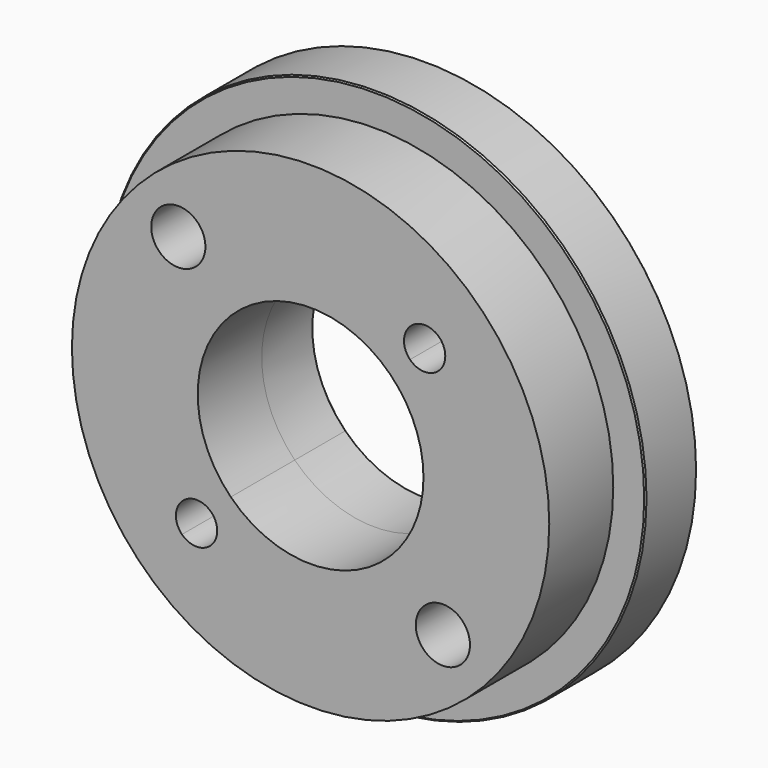
from build123d import *

# Parameters (mm, degrees)
F0_R          = 21
F1_DEPTH      = 5
F2_R          = 18.5
F3_DEPTH      = 6.2
F5_DEPTH      = 6.2
F5_DEPTH_BACK = 5
F6_SIZE       = 0.1


with BuildPart() as f1:
    # F0 (on Front) → F1 (new body)
    with BuildSketch(Plane.XZ):
        Circle(F0_R)
    extrude(amount=-F1_DEPTH)

    # F2 (on Front) → F3 (join)
    with BuildSketch(Plane.XZ):
        Circle(F2_R)
    extrude(amount=F3_DEPTH)

    # F4 (on Front) → F5 (cut, two sides)
    with BuildSketch(Plane.XZ) as f5_sk:
        with BuildLine():
            ThreePointArc((7.7074639149, 7.7074639149), (9.4511282566, 7.3606275128), (10.4388347648, 8.8388347648))
            ThreePointArc((10.4388347648, 8.8388347648), (10.3170420168, 9.4511282566), (9.9702056147, 9.9702056147))
            Line((9.9702056147, 9.9702056147), (7.7074639149, 7.7074639149))
        make_face()
        with BuildLine():
            ThreePointArc((12.3530483272, -10.2530483272), (11.0566835352, -8.3129013089), (8.7681240867, -8.7681240867))
            Line((8.7681240867, -8.7681240867), (11.7379725677, -11.7379725677))
            ThreePointArc((11.7379725677, -11.7379725677), (12.1931953455, -11.0566835352), (12.3530483272, -10.2530483272))
        make_face()
        with BuildLine():
            Line((11.7379725677, -11.7379725677), (8.7681240867, -8.7681240867))
            ThreePointArc((8.7681240867, -8.7681240867), (8.7681240867, -11.7379725677), (11.7379725677, -11.7379725677))
        make_face()
        with BuildLine():
            ThreePointArc((-7.2388347648, -8.8388347648), (-7.3606275128, -8.226541273), (-7.7074639149, -7.7074639149))
            Line((-7.7074639149, -7.7074639149), (-9.9702056147, -9.9702056147))
            ThreePointArc((-9.9702056147, -9.9702056147), (-8.226541273, -10.3170420168), (-7.2388347648, -8.8388347648))
        make_face()
        with BuildLine():
            Line((-9.9702056147, -9.9702056147), (-7.7074639149, -7.7074639149))
            ThreePointArc((-7.7074639149, -7.7074639149), (-9.9702056147, -7.7074639149), (-9.9702056147, -9.9702056147))
        make_face()
        with BuildLine():
            ThreePointArc((-11.7379725677, 11.7379725677), (-11.7379725677, 8.7681240867), (-8.7681240867, 8.7681240867))
            Line((-8.7681240867, 8.7681240867), (-11.7379725677, 11.7379725677))
        make_face()
        with BuildLine():
            Line((-11.7379725677, 11.7379725677), (-8.7681240867, 8.7681240867))
            ThreePointArc((-8.7681240867, 8.7681240867), (-8.3129013089, 9.4494131192), (-8.1530483272, 10.2530483272))
            ThreePointArc((-8.1530483272, 10.2530483272), (-9.4494131192, 12.1931953455), (-11.7379725677, 11.7379725677))
        make_face()
        with BuildLine():
            ThreePointArc((8.75, 0), (8.0839459095, 3.3484800332), (6.1871843354, 6.1871843354))
            Line((6.1871843354, 6.1871843354), (0, 0))
            Line((0, 0), (6.1871843354, -6.1871843354))
            ThreePointArc((6.1871843354, -6.1871843354), (8.0839459095, -3.3484800332), (8.75, 0))
        make_face()
        with BuildLine():
            Line((0, 0), (6.1871843354, 6.1871843354))
            ThreePointArc((6.1871843354, 6.1871843354), (0, 8.75), (-6.1871843354, 6.1871843354))
            Line((-6.1871843354, 6.1871843354), (0, 0))
        make_face()
        with BuildLine():
            Line((7.7074639149, 7.7074639149), (9.9702056147, 9.9702056147))
            ThreePointArc((9.9702056147, 9.9702056147), (7.7074639149, 9.9702056147), (7.7074639149, 7.7074639149))
        make_face()
        with BuildLine():
            Line((0, 0), (-6.1871843354, 6.1871843354))
            ThreePointArc((-6.1871843354, 6.1871843354), (-8.75, 0), (-6.1871843354, -6.1871843354))
            Line((-6.1871843354, -6.1871843354), (0, 0))
        make_face()
        with BuildLine():
            Line((6.1871843354, -6.1871843354), (0, 0))
            Line((0, 0), (-6.1871843354, -6.1871843354))
            ThreePointArc((-6.1871843354, -6.1871843354), (0, -8.75), (6.1871843354, -6.1871843354))
        make_face()
    extrude(amount=F5_DEPTH, mode=Mode.SUBTRACT)
    extrude(f5_sk.sketch, amount=-F5_DEPTH_BACK, mode=Mode.SUBTRACT)

    # F6
    f6_edges = [f1.edges().sort_by_distance(p)[0] for p in [
        (-21, 5, 0),
        (-9.970206, 5, -9.970206),
        (11.737973, 5, -11.737973),
        (6.187184, 5, 6.187184),
        (-11.737973, 5, 11.737973),
        (7.707464, 5, 7.707464),
        (-21, 0, 0),
    ]]
    chamfer(f6_edges, length=F6_SIZE)


solid = f1.part
